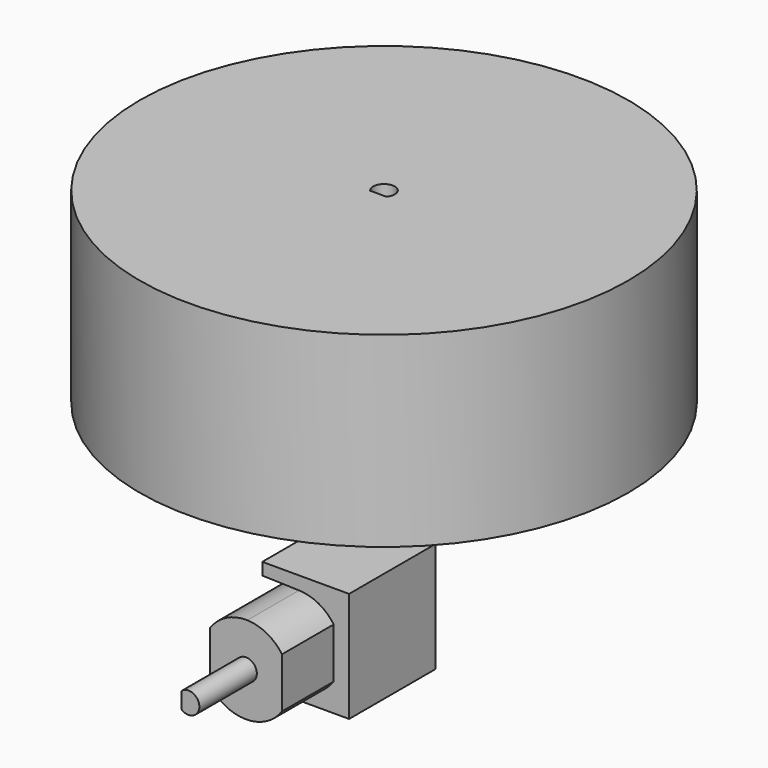
from build123d import *

# Parameters (mm, degrees)
F0_R     = 34
F1_DEPTH = 26
F3_DEPTH = 34
F4_DEPTH = 24
F5_DEPTH = 15


with BuildPart() as f1:
    # F0 (on Top) → F1 (new body)
    with BuildSketch(Plane.XY):
        Circle(F0_R)
        with BuildLine():
            ThreePointArc((-1.118034, -1), (0, 1.5), (1.118034, -1))
            Line((1.118034, -1), (0, -1))
            Line((0, -1), (-1.118034, -1))
        make_face(mode=Mode.SUBTRACT)
    extrude(amount=F1_DEPTH)


with BuildPart() as f3:
    # F2 (on Front) → F3 (new body)
    with BuildSketch(Plane.XZ):
        with BuildLine():
            Line((-1, -22.961324), (-1, -24.079358))
            ThreePointArc((-1, -24.079358), (1.5, -22.961324), (-1, -21.84329))
            Line((-1, -21.84329), (-1, -22.961324))
        make_face()
    extrude(amount=F3_DEPTH)

    # F2 (on Front) → F4 (join)
    with BuildSketch(Plane.XZ):
        with BuildLine():
            Line((5.000182, -26.461451), (4.999818, -19.460676))
            ThreePointArc((4.999818, -19.460676), (2.897828, -17.58961), (0.179813, -16.860473))
            ThreePointArc((0.179813, -16.860473), (-2.7386, -17.506713), (-5.000182, -19.461196))
            Line((-5.000182, -19.461196), (-4.999818, -26.461971))
            ThreePointArc((-4.999818, -26.461971), (-2.875575, -28.344982), (-0.129316, -29.063454))
            ThreePointArc((-0.129316, -29.063454), (2.761148, -28.404556), (5.000182, -26.461451))
        make_face()
        with BuildLine():
            ThreePointArc((-1, -21.84329), (1.5, -22.961324), (-1, -24.079358))
            Line((-1, -24.079358), (-1, -22.961324))
            Line((-1, -22.961324), (-1, -21.84329))
        make_face(mode=Mode.SUBTRACT)
    extrude(amount=F4_DEPTH)


with BuildPart() as f5:
    # F2 (on Front) → F5 (new body)
    with BuildSketch(Plane.XZ):
        Polygon((4.99969, -17.002531), (4.999818, -19.460676), (5.000182, -26.461451), (4.999818, -29.17215), (-0.129316, -29.063454), (-4.943248, -28.961437), (-4.943248, -30.351656), (7.141596, -30.351028), (7.140798, -15.022781), (-4.943248, -15.023409), (-4.943248, -16.709479), (0.179813, -16.860473), align=None)
        with BuildLine():
            Line((4.999818, -29.17215), (5.000182, -26.461451))
            ThreePointArc((5.000182, -26.461451), (2.761148, -28.404556), (-0.129316, -29.063454))
            Line((-0.129316, -29.063454), (4.999818, -29.17215))
        make_face()
        with BuildLine():
            ThreePointArc((0.179813, -16.860473), (2.897828, -17.58961), (4.999818, -19.460676))
            Line((4.999818, -19.460676), (4.99969, -17.002531))
            Line((4.99969, -17.002531), (0.179813, -16.860473))
        make_face()
    extrude(amount=F5_DEPTH)


solid = Compound([f1.part, f3.part, f5.part])
